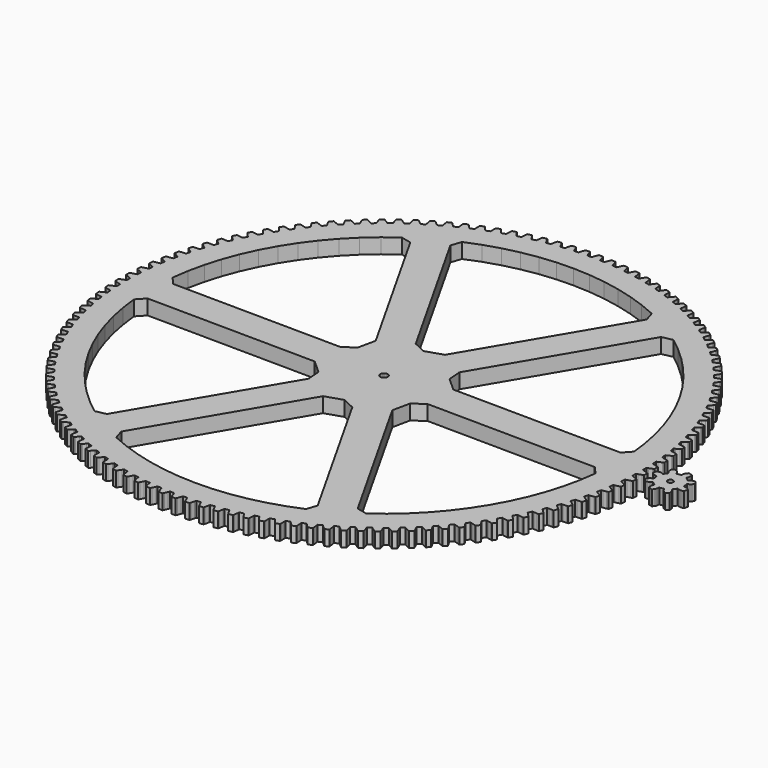
from build123d import *

# Parameters (mm, degrees)
F1_DEPTH = 4


with BuildPart() as f1:
    # F0 (on Top) → F1 (new body)
    with BuildSketch(Plane.XY):
        Polygon((63.58866, 0.325535), (63.16804, 0.463685), (63.15065, 1.617325), (63.5669, 1.768095), (64.39777, 2.096685), (64.81229, 2.273875), (64.76705, 3.398435), (64.33963, 3.541745), (63.48505, 3.802525), (63.05803, 3.919365), (62.98269, 5.070675), (63.39084, 5.242165), (64.20415, 5.612095), (64.60925, 5.809885), (64.50756, 6.930745), (64.07348, 7.052395), (63.20688, 7.269915), (62.77452, 7.365145), (62.64143, 8.511225), (63.04045, 8.703005), (63.83415, 9.113325), (64.22879, 9.331225), (64.07091, 10.445555), (63.63127, 10.545255), (62.75483, 10.718945), (62.31824, 10.792335), (62.12773, 11.930285), (62.51662, 12.141865), (63.28869, 12.591555), (63.67189, 12.828995), (63.45822, 13.933995), (63.01413, 14.011475), (62.13007, 14.140915), (61.69034, 14.192275), (61.44289, 15.319205), (61.82066, 15.550065), (62.56916, 16.037975), (62.93995, 16.294375), (62.67103, 17.387245), (62.2236, 17.442305), (61.33416, 17.527165), (60.8924, 17.556365), (60.58865, 18.669445), (60.95434, 18.918995), (61.67738, 19.443895), (62.03482, 19.718595), (61.71133, 20.796575), (61.2617, 20.829085), (60.36911, 20.869155), (59.92645, 20.876125), (59.56715, 21.972535), (59.91984, 22.240135), (60.6156, 22.800705), (60.95878, 23.093025), (60.58154, 24.153385), (60.13084, 24.163265), (59.23737, 24.158425), (58.79491, 24.143145), (58.38099, 25.220125), (58.71978, 25.505105), (59.3865, 26.099925), (59.71456, 26.409115), (59.28451, 27.449185), (58.83389, 27.436405), (57.94179, 27.386685), (57.50066, 27.349195), (57.03314, 28.404005), (57.35719, 28.705665), (57.99318, 29.333225), (58.30529, 29.658505), (57.82353, 30.675655), (57.37412, 30.640255), (56.48565, 30.545775), (56.04696, 30.486165), (55.52703, 31.516155), (55.83552, 31.833705), (56.43917, 32.492435), (56.73454, 32.832985), (56.20228, 33.824645), (55.75522, 33.766705), (54.87261, 33.627705), (54.43747, 33.546125), (53.86645, 34.548695), (54.15859, 34.881345), (54.72839, 35.569565), (55.00627, 35.924535), (54.42487, 36.888195), (53.98128, 36.807865), (53.10677, 36.624695), (52.67628, 36.521365), (52.05561, 37.493975), (52.33066, 37.840885), (52.86516, 38.556865), (53.12486, 38.925345), (52.49577, 39.858575), (52.05677, 39.756065), (51.19257, 39.529185), (50.76782, 39.404345), (50.09906, 40.344545), (50.35634, 40.704835), (50.85418, 41.446765), (51.09505, 41.827835), (50.41986, 42.728275), (49.98657, 42.603835), (49.13486, 42.333825), (48.71692, 42.187805), (48.00176, 43.093215), (48.24061, 43.465975), (48.70055, 44.231985), (48.92196, 44.624665), (48.20239, 45.490045), (47.7759, 45.343995), (46.93883, 45.031525), (46.52875, 44.864695), (45.76901, 45.733025), (45.98883, 46.117325), (46.4097, 46.905475), (46.6111, 47.308785), (45.84895, 48.136915), (45.43034, 47.969625), (44.61003, 47.615495), (44.20885, 47.428265), (43.40644, 48.257325), (43.60667, 48.652185), (43.98741, 49.460485), (44.16829, 49.873405), (43.3655, 50.662195), (42.95582, 50.474085), (42.15434, 50.079185), (41.76307, 49.872035), (40.92002, 50.659735), (41.10016, 51.064145), (41.43981, 51.890555), (41.59971, 52.312045), (40.7583, 53.059515), (40.35859, 52.851045), (39.57797, 52.416375), (39.1976, 52.189835), (38.31604, 52.934175), (38.47563, 53.347135), (38.77333, 54.189565), (38.91185, 54.618555), (38.03395, 55.322795), (37.64522, 55.094515), (36.88742, 54.621175), (36.51892, 54.375795), (35.60106, 55.074915), (35.73971, 55.495365), (35.9947, 56.351695), (36.1115, 56.787105), (35.19931, 57.446345), (34.82255, 57.198815), (34.08949, 56.687995), (33.73378, 56.424415), (32.78196, 57.076535), (32.89931, 57.503415), (33.11095, 58.371475), (33.20572, 58.812205), (32.26157, 59.424785), (31.89771, 59.158635), (31.19124, 58.611625), (30.84923, 58.330515), (29.86585, 58.933975), (29.9616, 59.366225), (30.12935, 60.243815), (30.20186, 60.688745), (29.22813, 61.253115), (28.8781, 60.969025), (28.20001, 60.387215), (27.87255, 60.089265), (26.86009, 60.642565), (26.934, 61.079065), (27.05745, 61.963985), (27.10752, 62.411995), (26.10665, 62.926725), (25.77134, 62.625405), (25.12334, 62.010265), (24.81127, 61.696235), (23.77229, 62.197965), (23.82417, 62.637635), (23.903, 63.527635), (23.93049, 63.977595), (22.90503, 64.441385), (22.58529, 64.123605), (21.96901, 63.476675), (21.67311, 63.147365), (20.61023, 63.596255), (20.63996, 64.037985), (20.67397, 64.930815), (20.67882, 65.381595), (19.63135, 65.793275), (19.32798, 65.459825), (18.74498, 64.782745), (18.466, 64.438995), (17.38191, 64.833915), (17.38941, 65.276565), (17.37852, 66.169985), (17.36071, 66.620435), (16.29388, 66.978965), (16.00764, 66.630695), (15.45941, 65.925185), (15.19804, 65.567845), (14.09548, 65.907795), (14.08073, 66.350265), (14.02497, 67.242015), (13.98455, 67.690995), (12.90105, 67.995475), (12.63267, 67.633265), (12.12058, 66.901095), (11.8775, 66.531075), (10.75925, 66.815195), (10.72228, 67.256375), (10.62179, 68.144185), (10.55886, 68.590575), (9.46143, 68.840225), (9.2116, 68.464985), (8.73693, 67.708015), (8.51275, 67.326255), (7.38164, 67.553825), (7.32255, 67.992585), (7.17758, 68.874235), (7.0923, 69.316895), (5.98372, 69.511095), (5.75305, 69.123775), (5.31702, 68.343905), (5.1123, 67.951365), (3.97118, 68.121825), (3.89013, 68.557055), (3.70104, 69.430305), (3.59363, 69.868125), (2.47668, 70.006375), (2.26577, 69.607955), (1.86947, 68.807165), (1.68474, 68.404835), (0.5365, 68.517745), (0.43367, 68.948355), (0.20095, 69.810995), (0.07168, 70.242865), (-1.0508, 70.324825), (-1.24144, 69.916315), (-1.597, 69.096625), (-1.76128, 68.685515), (-2.91374, 68.740585), (-3.03807, 69.165485), (-3.31385, 70.015345), (-3.46466, 70.440175), (-4.58984, 70.465635), (-4.7597, 70.048055), (-5.07363, 69.211545), (-5.21705, 68.792695), (-6.37082, 68.789795), (-6.51635, 69.207915), (-6.83447, 70.042845), (-7.00644, 70.459565), (-8.13147, 70.428455), (-8.28014, 70.002865), (-8.55164, 69.151635), (-8.67384, 68.726105), (-9.82601, 68.665245), (-9.99236, 69.075525), (-10.35203, 69.893415), (-10.54472, 70.300965), (-11.66677, 70.213365), (-11.79387, 69.780855), (-12.02226, 68.917045), (-12.12291, 68.485925), (-13.27057, 68.367245), (-13.45733, 68.768645), (-13.85764, 69.567435), (-14.07056, 69.964785), (-15.18679, 69.820925), (-15.292, 69.382565), (-15.4767, 68.508385), (-15.55557, 68.072745), (-16.69582, 67.896555), (-16.9025, 68.288065), (-17.34244, 69.065735), (-17.57506, 69.451885), (-18.68265, 69.252115), (-18.7657, 68.809035), (-18.90624, 67.926665), (-18.96313, 67.487615), (-20.09308, 67.254355), (-20.31917, 67.634995), (-20.79764, 68.389565), (-21.04936, 68.763545), (-22.14552, 68.508385), (-22.2062, 68.061685), (-22.30223, 67.173375), (-22.33698, 66.732015), (-23.45379, 66.442275), (-23.69872, 66.811075), (-24.21449, 67.540655), (-24.48469, 67.901515), (-25.56664, 67.591595), (-25.6048, 67.142415), (-25.65608, 66.250395), (-25.66861, 65.807855), (-26.76945, 65.462365), (-27.0326, 65.818395), (-27.58438, 66.521135), (-27.87236, 66.867965), (-28.93738, 66.504075), (-28.95292, 66.053545), (-28.95932, 65.160085), (-28.9496, 64.717465), (-30.03169, 64.317105), (-30.3124, 64.659455), (-30.89879, 65.333595), (-31.20383, 65.665515), (-32.24922, 65.248575), (-32.24211, 64.797825), (-32.2036, 63.905165), (-32.17165, 63.463605), (-33.23226, 63.009375), (-33.52982, 63.337195), (-34.14934, 63.981015), (-34.47067, 64.297185), (-35.49379, 63.828245), (-35.46404, 63.378425), (-35.38073, 62.488835), (-35.32664, 62.049435), (-36.36309, 61.542495), (-36.67674, 61.854945), (-37.32782, 62.466825), (-37.66464, 62.766455), (-38.66291, 62.246695), (-38.61059, 61.798945), (-38.48269, 60.914655), (-38.40659, 60.478525), (-39.41626, 59.920155), (-39.74521, 60.216445), (-40.42622, 60.794845), (-40.77766, 61.077175), (-41.74855, 60.507915), (-41.67381, 60.063355), (-41.50164, 59.186615), (-41.40372, 58.754855), (-42.38406, 58.146455), (-42.72748, 58.425855), (-43.43669, 58.969295), (-43.80188, 59.233615), (-44.74294, 58.616295), (-44.64595, 58.176045), (-44.42995, 57.309065), (-44.31046, 56.882775), (-45.25899, 56.225885), (-45.61602, 56.487675), (-46.35164, 56.994805), (-46.72964, 57.240435), (-47.6385, 56.576615), (-47.51951, 56.141795), (-47.26022, 55.286765), (-47.11947, 54.867015), (-48.03379, 54.163295), (-48.40352, 54.406815), (-49.16369, 54.876335), (-49.55356, 55.102665), (-50.42792, 54.394025), (-50.28724, 53.965735), (-49.98531, 53.124805), (-49.82365, 52.712655), (-50.70146, 51.963885), (-51.08296, 52.188525), (-51.86576, 52.619265), (-52.26651, 52.825715), (-53.10415, 52.074035), (-52.94213, 51.653355), (-52.59834, 50.828655), (-52.41617, 50.425155), (-53.25525, 49.633225), (-53.64755, 49.838405), (-54.45101, 50.229275), (-54.86162, 50.415325), (-55.66044, 49.622505), (-55.47749, 49.210495), (-55.09269, 48.404125), (-54.89048, 48.010285), (-55.68871, 47.177195), (-56.09083, 47.362405), (-56.9129, 47.712405), (-57.33235, 47.877595), (-58.09033, 47.045645), (-57.8869, 46.643345), (-57.46208, 45.857325), (-57.24033, 45.474135), (-57.99569, 44.601995), (-58.40661, 44.766765), (-59.24523, 45.075025), (-59.67245, 45.218925), (-60.38767, 44.349945), (-60.16429, 43.958375), (-59.70051, 43.194685), (-59.45978, 42.823135), (-60.17038, 41.914135), (-60.58905, 42.058055), (-61.44211, 42.323785), (-61.87601, 42.446045), (-62.54667, 41.542215), (-62.30389, 41.162375), (-61.80233, 40.422945), (-61.54324, 40.063955), (-62.20726, 39.120405), (-62.63264, 39.243105), (-63.49797, 39.465645), (-63.93747, 39.565945), (-64.56186, 38.629565), (-64.30031, 38.262395), (-63.76223, 37.549105), (-63.48543, 37.203585), (-64.10121, 36.227865), (-64.53221, 36.329035), (-65.40763, 36.507815), (-65.85162, 36.585905), (-66.42817, 35.619335), (-66.1485, 35.265775), (-65.57526, 34.580425), (-65.28145, 34.249245), (-65.84743, 33.243815), (-66.28297, 33.323205), (-67.16626, 33.457765), (-67.61361, 33.513455), (-68.14088, 32.519145), (-67.8438, 32.180075), (-67.23684, 31.524395), (-66.92676, 31.208395), (-67.44151, 30.175805), (-67.88049, 30.233205), (-68.76943, 30.323215), (-69.21901, 30.356355), (-69.69565, 29.336805), (-69.38191, 29.013095), (-68.74278, 28.388735), (-68.41721, 28.088715), (-68.87942, 27.031565), (-69.32074, 27.066845), (-70.21308, 27.112075), (-70.66376, 27.122585), (-71.08857, 26.080375), (-70.75896, 25.772835), (-70.08926, 25.181375), (-69.74904, 24.898095), (-70.15755, 23.819055), (-70.60007, 23.832115), (-71.49356, 23.832455), (-71.9442, 23.820305), (-72.31611, 22.758065), (-71.97146, 22.467475), (-71.27289, 21.910415), (-70.91886, 21.644585), (-71.27264, 20.546385), (-71.71527, 20.537185), (-72.60764, 20.492635), (-73.0571, 20.457865), (-73.37517, 19.378275), (-73.01636, 19.105375), (-72.29068, 18.584115), (-71.92374, 18.336405), (-72.2219, 17.221815), (-72.6635, 17.190395), (-73.55251, 17.101065), (-73.99965, 17.043755), (-74.26308, 15.949545), (-73.89101, 15.695015), (-73.14006, 15.210875), (-72.76114, 14.981915), (-73.00291, 13.853755), (-73.44238, 13.800185), (-74.32578, 13.666295), (-74.76948, 13.586595), (-74.97759, 12.480535), (-74.5932, 12.245015), (-73.81888, 11.799215), (-73.42893, 11.589585), (-73.61372, 10.450705), (-74.04994, 10.375125), (-74.92549, 10.197015), (-75.36463, 10.095115), (-75.5169, 8.980005), (-75.12117, 8.764095), (-74.32542, 8.357765), (-73.92543, 8.167995), (-74.05276, 7.021265), (-74.48464, 6.923855), (-75.35014, 6.701985), (-75.7836, 6.578155), (-75.87965, 5.456795), (-75.47357, 5.261045), (-74.65841, 4.895215), (-74.2494, 4.725775), (-74.31895, 3.574095), (-74.74538, 3.455115), (-75.59864, 3.190035), (-76.02533, 3.044585), (-76.06492, 1.919815), (-75.64951, 1.744715), (-74.81701, 1.420295), (-74.4, 1.271625), (-74.41159, 0.117905), (-74.83151, -0.022355), (-75.67037, -0.329965), (-76.08922, -0.496675), (-76.07225, -1.622015), (-75.64856, -1.776025), (-74.80081, -2.058195), (-74.37685, -2.185725), (-74.33047, -3.338575), (-74.74281, -3.499755), (-75.56516, -3.849125), (-75.97509, -4.036665), (-75.9016, -5.159735), (-75.47072, -5.292255), (-74.60986, -5.531485), (-74.18003, -5.637555), (-74.07578, -6.786615), (-74.4795, -6.968305), (-75.28325, -7.358555), (-75.68325, -7.566455), (-75.55343, -8.684415), (-75.11643, -8.795115), (-74.24463, -8.990785), (-73.81002, -9.075125), (-73.64817, -10.217495), (-74.04225, -10.419245), (-74.82538, -10.849385), (-75.21443, -11.077125), (-75.02859, -12.187145), (-74.58658, -12.275755), (-73.70606, -12.427375), (-73.26776, -12.489765), (-73.04871, -13.622565), (-73.43216, -13.843855), (-74.19269, -14.312795), (-74.5698, -14.559805), (-74.32843, -15.659085), (-73.88253, -15.725375), (-72.9955, -15.832555), (-72.55461, -15.872845), (-72.27893, -16.993205), (-72.65077, -17.233485), (-73.38678, -17.740055), (-73.75101, -18.005685), (-73.45471, -19.091455), (-73.00604, -19.135255), (-72.11474, -19.197735), (-71.67239, -19.215825), (-71.34076, -20.320925), (-71.70006, -20.579585), (-72.40969, -21.122485), (-72.76011, -21.406085), (-72.40963, -22.475595), (-71.95933, -22.496795), (-71.06602, -22.514415), (-70.62331, -22.510255), (-70.23658, -23.597295), (-70.58243, -23.873675), (-71.26388, -24.451555), (-71.59961, -24.752405), (-71.19584, -25.802945), (-70.74504, -25.801495), (-69.85197, -25.774215), (-69.41004, -25.747815), (-68.96918, -26.814045), (-69.3007, -27.107465), (-69.95226, -27.718845), (-70.27245, -28.036185), (-69.8164, -29.065115), (-69.36624, -29.041015), (-68.47567, -28.968895), (-68.03563, -28.920325), (-67.54175, -29.963065), (-67.85811, -30.272755), (-68.47813, -30.916105), (-68.78197, -31.249135), (-68.2748, -32.253845), (-67.82642, -32.207165), (-66.9406, -32.090385), (-66.50355, -32.019775), (-65.9579, -33.036375), (-66.25831, -33.361575), (-66.84522, -34.035265), (-67.13194, -34.383135), (-66.57493, -35.361105), (-66.12946, -35.291945), (-65.25063, -35.130815), (-64.81768, -35.038325), (-64.22164, -36.026225), (-64.50533, -36.366115), (-65.05765, -37.068435), (-65.32653, -37.430275), (-64.72109, -38.379025), (-64.27966, -38.287575), (-63.41003, -38.082485), (-62.98227, -37.968365), (-62.33735, -38.925065), (-62.6036, -39.278775), (-63.11993, -40.007965), (-63.37029, -40.382855), (-62.71795, -41.299985), (-62.28167, -41.186475), (-61.42345, -40.937945), (-61.00196, -40.802475), (-60.30979, -41.725575), (-60.55793, -42.092215), (-61.03697, -42.846425), (-61.26818, -43.233415), (-60.57058, -44.116615), (-60.14056, -43.981325), (-59.2959, -43.689985), (-58.88176, -43.533515), (-58.14408, -44.420665), (-58.37349, -44.799315), (-58.81403, -45.576635), (-59.0255, -45.974765), (-58.2844, -46.821785), (-57.86172, -46.665065), (-57.03277, -46.331655), (-56.62701, -46.154575), (-55.84569, -47.003535), (-56.05578, -47.393235), (-56.45671, -48.191715), (-56.64792, -48.599955), (-55.8652, -49.408675), (-55.45092, -49.230915), (-54.63977, -48.856285), (-54.24342, -48.659035), (-53.42043, -49.467665), (-53.61068, -49.867425), (-53.97098, -50.685045), (-54.14143, -51.102385), (-53.31907, -51.870755), (-52.91425, -51.672395), (-52.12295, -51.257485), (-51.73701, -51.040565), (-50.87443, -51.806835), (-51.04435, -52.215645), (-51.36312, -53.050335), (-51.51238, -53.475705), (-50.65245, -54.201785), (-50.25811, -53.983345), (-49.48865, -53.529195), (-49.1141, -53.293165), (-48.21411, -54.015115), (-48.36327, -54.431955), (-48.6397, -55.281605), (-48.76741, -55.713935), (-47.87208, -56.395895), (-47.48921, -56.157915), (-46.74354, -55.665675), (-46.38132, -55.411125), (-45.44619, -56.086955), (-45.57423, -56.510755), (-45.80762, -57.373215), (-45.91344, -57.811425), (-44.98498, -58.447535), (-44.61455, -58.190615), (-43.89456, -57.661535), (-43.54558, -57.389105), (-42.57768, -58.017095), (-42.68426, -58.446795), (-42.87402, -59.319895), (-42.95769, -59.762865), (-41.99844, -60.351525), (-41.64139, -60.076315), (-40.94889, -59.511735), (-40.61405, -59.222105), (-39.61581, -59.800675), (-39.70067, -60.235185), (-39.84632, -61.116715), (-39.90762, -61.563335), (-38.92001, -62.103045), (-38.57724, -61.810255), (-37.91398, -61.211585), (-37.59411, -60.905505), (-36.56807, -61.433185), (-36.63098, -61.871405), (-36.73216, -62.759145), (-36.77095, -63.208275), (-35.75746, -63.697695), (-35.42983, -63.388045), (-34.79749, -62.756805), (-34.49341, -62.435035), (-33.44215, -62.910495), (-33.48297, -63.351335), (-33.53941, -64.243025), (-33.55558, -64.693545), (-32.51879, -65.131415), (-32.20713, -64.805695), (-31.60731, -64.143485), (-31.31977, -63.806845), (-30.24595, -64.228885), (-30.26457, -64.671215), (-30.27614, -65.564625), (-30.26966, -66.015375), (-29.21217, -66.400605), (-28.91727, -66.059635), (-28.35148, -65.368125), (-28.08122, -65.017465), (-26.98755, -65.385015), (-26.98392, -65.827725), (-26.95059, -66.720585), (-26.92146, -67.170445), (-25.84596, -67.502055), (-25.56856, -67.146705), (-25.03823, -66.427635), (-24.78593, -66.063835), (-23.67517, -66.375975), (-23.6493, -66.817935), (-23.57115, -67.707995), (-23.51946, -68.155825), (-22.42865, -68.432985), (-22.16947, -68.064135), (-21.67593, -67.319335), (-21.44223, -66.943315), (-20.31719, -67.199255), (-20.26915, -67.639355), (-20.14638, -68.524365), (-20.07225, -68.969035), (-18.96889, -69.191025), (-18.72857, -68.809625), (-18.27307, -68.040965), (-18.05856, -67.653685), (-16.92209, -67.852775), (-16.85199, -68.289905), (-16.68491, -69.167625), (-16.58853, -69.608005), (-15.47542, -69.774285), (-15.25455, -69.381295), (-14.83826, -68.590715), (-14.64348, -68.193145), (-13.49843, -68.334875), (-13.40646, -68.767935), (-13.19549, -69.636155), (-13.07711, -70.071145), (-11.95705, -70.181285), (-11.75621, -69.777685), (-11.38016, -68.967195), (-11.2056, -68.560335), (-10.05488, -68.644355), (-9.94127, -69.072255), (-9.68694, -69.928775), (-9.54685, -70.357255), (-8.42267, -70.410985), (-8.24236, -69.997805), (-7.90751, -69.169445), (-7.75362, -68.754335), (-6.60013, -68.780425), (-6.46516, -69.202075), (-6.16812, -70.044735), (-6.00668, -70.465635), (-4.88122, -70.462815), (-4.7219, -70.041095), (-4.42909, -69.196955), (-4.29624, -68.774635), (-3.1429, -68.742745), (-2.98692, -69.157075), (-2.64791, -69.983745), (-2.46553, -70.396015), (-1.34163, -70.336635), (-1.2037, -69.907455), (-0.95368, -69.049665), (-0.84222, -68.621205), (0.30806, -68.531405), (0.48466, -68.937375), (0.86478, -69.745965), (1.06765, -70.148545), (2.18714, -70.032775), (2.30333, -69.597205), (2.50994, -68.727935), (2.59973, -68.294415), (3.74405, -68.146935), (3.94083, -68.543515), (4.36109, -69.331995), (4.58393, -69.723875), (5.69619, -69.552005), (5.79035, -69.111145), (5.95302, -68.232595), (6.02092, -67.795105), (7.15638, -67.590315), (7.37284, -67.976515), (7.83218, -68.742875), (8.07443, -69.123065), (9.17665, -68.895525), (9.24854, -68.450485), (9.36687, -67.564875), (9.4127, -67.124535), (10.53643, -66.862945), (10.77202, -67.237785), (11.26929, -67.980095), (11.53033, -68.347635), (12.61974, -68.065005), (12.66917, -67.616915), (12.74285, -66.726475), (12.7665, -66.284385), (13.87567, -65.966675), (14.12979, -66.329195), (14.66374, -67.045585), (14.94291, -67.399545), (16.01674, -67.062535), (16.0436, -66.612525), (16.07244, -65.719515), (16.07385, -65.276795), (17.16566, -64.903745), (17.43768, -65.253045), (18.00694, -65.941705), (18.30355, -66.281185), (19.35908, -65.890645), (19.3633, -65.439865), (19.34724, -64.546525), (19.3264, -64.104295), (20.39809, -63.676865), (20.68731, -64.012055), (21.29046, -64.671245), (21.60375, -64.995395), (22.63833, -64.552315), (22.61989, -64.101885), (22.55896, -63.210485), (22.51593, -62.769855), (23.56479, -62.289125), (23.87049, -62.609355), (24.50599, -63.237405), (24.83517, -63.545405), (25.84618, -63.050905), (25.80514, -62.601975), (25.6995, -61.714755), (25.63438, -61.276845), (26.65776, -60.744025), (26.97916, -61.048485), (27.64542, -61.643815), (27.98966, -61.934885), (28.97455, -61.390215), (28.911, -60.943915), (28.76092, -60.063125), (28.67388, -59.629045), (29.6692, -59.045465), (30.00549, -59.333405), (30.70082, -59.894505), (31.05925, -60.167905), (32.01553, -59.574435), (31.92963, -59.131895), (31.73549, -58.259755), (31.62675, -57.830595), (32.59149, -57.197755), (32.94182, -57.468425), (33.66447, -57.993885), (34.03618, -58.248935), (34.96143, -57.608165), (34.85341, -57.170495), (34.61569, -56.309215), (34.48553, -55.886065), (35.41725, -55.205545), (35.78074, -55.458275), (36.52887, -55.946755), (36.91293, -56.182805), (37.80482, -55.496355), (37.67495, -55.064665), (37.39425, -54.216425), (37.24299, -53.800345), (38.13934, -53.073865), (38.51507, -53.308015), (39.2868, -53.758295), (39.68224, -53.974755), (40.53851, -53.244355), (40.38711, -52.819735), (40.06415, -51.986665), (39.89217, -51.578715), (40.75089, -50.808115), (41.13792, -51.023095), (41.9313, -51.434025), (42.33711, -51.630345), (43.1556, -50.857845), (42.98305, -50.441375), (42.61864, -49.625575), (42.42639, -49.226785), (43.24531, -48.414015), (43.64264, -48.609275), (44.45566, -48.979825), (44.87083, -49.155505), (45.64947, -48.342855), (45.45622, -47.935575), (45.05128, -47.139125), (44.83923, -46.750485), (45.61628, -45.897605), (46.02292, -46.072655), (46.85354, -46.401885), (47.277, -46.556485), (48.01383, -45.705745), (47.80036, -45.308685), (47.35592, -44.533585), (47.12461, -44.156095), (47.85782, -43.265245), (48.27275, -43.419635), (49.11885, -43.706725), (49.54955, -43.839845), (50.24271, -42.953165), (50.00955, -42.567335), (49.52673, -41.815545), (49.27674, -41.450145), (49.96427, -40.523585), (50.38643, -40.656935), (51.24589, -40.901145), (51.68273, -41.012465), (52.33046, -40.092065), (52.07822, -39.718445), (51.55823, -38.991855), (51.2902, -38.639495), (51.9303, -37.679555), (52.35863, -37.791525), (53.22928, -37.992245), (53.67116, -38.081465), (54.27183, -37.129695), (54.00113, -36.769215), (53.44529, -36.069675), (53.1599, -35.731215), (53.75096, -34.740325), (54.18437, -34.830635), (55.06401, -34.987355), (55.50982, -35.054265), (56.0619, -34.073515), (55.77343, -33.727095), (55.18315, -33.056365), (54.88111, -32.732675), (55.42164, -31.713345), (55.85904, -31.781755), (56.74544, -31.894085), (57.19405, -31.938515), (57.69616, -30.931255), (57.39065, -30.599765), (56.76741, -29.959545), (56.44949, -29.651435), (56.93812, -28.606235), (57.3784, -28.652585), (58.26932, -28.720235), (58.7196, -28.742065), (59.17047, -27.710855), (58.84869, -27.395135), (58.19407, -26.787035), (57.86107, -26.495285), (58.29657, -25.426855), (58.73863, -25.451025), (59.63182, -25.473825), (60.08262, -25.473005), (60.48111, -24.420445), (60.14387, -24.121285), (59.45952, -23.546845), (59.11229, -23.272205), (59.49355, -22.183235), (59.93627, -22.185175), (60.82948, -22.163065), (61.27967, -22.139595), (61.62477, -21.068335), (61.27293, -20.786505), (60.56058, -20.247175), (60.19999, -19.990325), (60.52606, -18.883575), (60.96831, -18.863265), (61.85928, -18.796305), (62.30773, -18.750245), (62.59856, -17.663005), (62.23301, -17.399205), (61.49446, -16.896345), (61.12141, -16.657935), (61.39146, -15.536205), (61.83214, -15.493695), (62.71862, -15.382055), (63.16418, -15.313525), (63.40003, -14.213045), (63.02168, -13.967945), (62.2588, -13.502825), (61.87425, -13.283465), (62.08759, -12.149585), (62.52558, -12.084985), (63.40533, -11.928945), (63.84689, -11.838105), (64.02714, -10.727175), (63.63695, -10.501385), (62.85167, -10.075195), (62.45658, -9.875425), (62.61268, -8.732255), (63.04687, -8.645735), (63.91767, -8.445685), (64.35411, -8.332785), (64.47831, -7.214195), (64.07727, -7.008295), (63.27157, -6.622095), (62.86694, -6.442435), (62.96541, -5.292865), (63.3947, -5.184635), (64.25435, -4.941085), (64.68456, -4.806405), (64.75241, -3.682985), (64.34153, -3.497495), (63.51744, -3.152265), (63.1043, -2.993165), (63.14488, -1.840095), (63.56819, -1.710435), (64.41452, -1.424005), (64.83742, -1.267865), (64.84873, -0.142455), (64.42906, 0.022145), align=None)
        Polygon((-32.59874, -53.969265), (-9.71597, -15.239595), (-5.14731, -13.746725), (-1.83342, -15.318835), (20.26608, -54.500735), (19.37504, -57.224295), (15.2929, -58.838935), (11.10742, -60.162815), (6.83927, -61.189375), (2.50954, -61.913545), (-1.86036, -62.331765), (-6.24884, -62.441945), (-10.63422, -62.243555), (-14.99483, -61.737565), (-19.30912, -60.926495), (-23.55577, -59.814325), (-27.71379, -58.406575), (-31.76264, -56.710185), align=None, mode=Mode.SUBTRACT)
        Polygon((-65.85146, -3.619645), (-20.86919, -4.071875), (-17.292, -7.282015), (-16.99655, -10.937985), (-39.87932, -49.667655), (-42.68351, -50.257775), (-46.1229, -47.529865), (-49.36215, -44.567065), (-52.38525, -41.384015), (-55.17727, -37.996455), (-57.7244, -34.421115), (-60.01407, -30.675675), (-62.03494, -26.778625), (-63.77705, -22.749235), (-65.23178, -18.607405), (-66.39194, -14.373625), (-67.25181, -10.068795), (-67.80712, -5.714185), align=None, mode=Mode.SUBTRACT)
        Polygon((27.63166, -50.346375), (5.53217, -11.164475), (6.52364, -6.461465), (9.54208, -4.377605), (54.52434, -4.829835), (56.43749, -6.963275), (55.79475, -11.305835), (54.84851, -15.592505), (53.60347, -19.802115), (52.06576, -23.913855), (50.24299, -27.907405), (48.14417, -31.763035), (45.77967, -35.461685), (43.16117, -38.985095), (40.30161, -42.315835), (37.21512, -45.437465), (33.91696, -48.334535), (30.42342, -50.992755), align=None, mode=Mode.SUBTRACT)
        Polygon((-38.87377, 50.352865), (-16.77427, 11.170965), (-17.76575, 6.467955), (-20.78418, 4.384095), (-65.76645, 4.836325), (-67.6796, 6.969755), (-67.03685, 11.312315), (-66.09062, 15.598995), (-64.84557, 19.808595), (-63.30786, 23.920335), (-61.4851, 27.913885), (-59.38628, 31.769515), (-57.02177, 35.468175), (-54.40327, 38.991575), (-51.54372, 42.322325), (-48.45723, 45.443945), (-45.15907, 48.341025), (-41.66553, 50.999235), align=None, mode=Mode.SUBTRACT)
        Polygon((-4.65513, 0.262065), (-4.62105, 0.003245), (-4.65513, -0.255575), (-4.75503, -0.496755), (-4.91395, -0.703865), (-5.12105, -0.862785), (-5.36223, -0.962685), (-5.62105, -0.996755), (-5.87987, -0.962685), (-6.12105, -0.862785), (-6.32816, -0.703865), (-6.48708, -0.496755), (-6.58698, -0.255575), (-6.62105, 0.003245), (-6.58698, 0.262065), (-6.48708, 0.503245), (-6.32816, 0.710345), (-6.12105, 0.869265), (-5.87987, 0.969165), (-5.62105, 1.003245), (-5.36223, 0.969165), (-5.12105, 0.869265), (-4.91395, 0.710345), (-4.75503, 0.503245), align=None, mode=Mode.SUBTRACT)
        Polygon((21.35664, 53.975745), (-1.52613, 15.246075), (-6.0948, 13.753215), (-9.40869, 15.325325), (-31.50818, 54.507225), (-30.61715, 57.230775), (-26.53501, 58.845425), (-22.34952, 60.169295), (-18.08137, 61.195855), (-13.75165, 61.920035), (-9.38175, 62.338245), (-4.99326, 62.448435), (-0.60788, 62.250035), (3.75273, 61.744055), (8.06702, 60.932975), (12.31366, 59.820815), (16.47169, 58.413055), (20.52054, 56.716665), align=None, mode=Mode.SUBTRACT)
        Polygon((54.60935, 3.626135), (9.62709, 4.078355), (6.0499, 7.288505), (5.75444, 10.944475), (28.63721, 49.674145), (31.4414, 50.264265), (34.88079, 47.536345), (38.12004, 44.573545), (41.14315, 41.390505), (43.93516, 38.002945), (46.4823, 34.427605), (48.77196, 30.682155), (50.79284, 26.785105), (52.53495, 22.755715), (53.98968, 18.613895), (55.14984, 14.380105), (56.0097, 10.075275), (56.56501, 5.720675), align=None, mode=Mode.SUBTRACT)
        Polygon((67.17221, 0.003285), (67.23007, -0.113575), (67.27271, -0.562535), (67.37089, -1.002695), (67.35198, -1.131715), (67.31169, -1.188145), (67.21998, -1.265735), (67.12042, -1.320035), (66.90697, -1.388045), (66.70991, -1.501845), (66.53167, -1.664145), (66.3678, -1.857035), (66.21865, -2.076195), (66.0852, -2.319035), (66.3293, -2.763905), (66.61486, -3.183365), (66.89182, -3.174705), (67.15481, -3.141315), (67.40107, -3.082865), (67.6266, -2.997735), (67.81746, -2.873825), (67.97496, -2.714515), (68.06854, -2.650465), (68.17931, -2.603965), (68.24788, -2.593695), (68.37143, -2.635415), (68.71904, -2.922715), (69.0997, -3.164535), (69.17756, -3.269145), (69.18898, -3.337535), (69.17899, -3.457245), (69.14698, -3.566045), (69.04414, -3.765065), (68.98527, -3.984875), (68.974, -4.225665), (68.99452, -4.477935), (69.04403, -4.738375), (69.12137, -5.004455), (69.60855, -5.146415), (70.10708, -5.241105), (70.29679, -5.039135), (70.45914, -4.829565), (70.59195, -4.614105), (70.69122, -4.394435), (70.73856, -4.171855), (70.73728, -3.947845), (70.75816, -3.836375), (70.80361, -3.725175), (70.84483, -3.669425), (70.96169, -3.611555), (71.41065, -3.568915), (71.85081, -3.470735), (71.97983, -3.489655), (72.03626, -3.529935), (72.11385, -3.621655), (72.16815, -3.721215), (72.23616, -3.934665), (72.34996, -4.131715), (72.51226, -4.309955), (72.70515, -4.473825), (72.92432, -4.622975), (73.16715, -4.756435), (73.61202, -4.512325), (74.03148, -4.226765), (74.02282, -3.949815), (73.98943, -3.686825), (73.93098, -3.440555), (73.84585, -3.215035), (73.72194, -3.024175), (73.56263, -2.866675), (73.49858, -2.773095), (73.45208, -2.662325), (73.44181, -2.593755), (73.48353, -2.470205), (73.77084, -2.122595), (74.01265, -1.741925), (74.11726, -1.664075), (74.18565, -1.652655), (74.30536, -1.662645), (74.41416, -1.694645), (74.61318, -1.797495), (74.83299, -1.856355), (75.07379, -1.867635), (75.32605, -1.847115), (75.58649, -1.797605), (75.85257, -1.720255), (75.99453, -1.233085), (76.08922, -0.734555), (75.88726, -0.544845), (75.67768, -0.382495), (75.46222, -0.249685), (75.24255, -0.150405), (75.01998, -0.103065), (74.79596, -0.104345), (74.68449, -0.083465), (74.57329, -0.038025), (74.51754, 0.003195), (74.45967, 0.120065), (74.41703, 0.569015), (74.31885, 1.009175), (74.33777, 1.138205), (74.37805, 1.194635), (74.46977, 1.272215), (74.56933, 1.326525), (74.78278, 1.394525), (74.97983, 1.508335), (75.15807, 1.670625), (75.32195, 1.863515), (75.4711, 2.082685), (75.60455, 2.325525), (75.36045, 2.770385), (75.07489, 3.189855), (74.79793, 3.181195), (74.53494, 3.147795), (74.28868, 3.089355), (74.06315, 3.004225), (73.87229, 2.880315), (73.71479, 2.721005), (73.62121, 2.656945), (73.51044, 2.610445), (73.44187, 2.600175), (73.31832, 2.641895), (72.97071, 2.929205), (72.59005, 3.171015), (72.51219, 3.275635), (72.50077, 3.344015), (72.51076, 3.463735), (72.54276, 3.572525), (72.64561, 3.771545), (72.70447, 3.991355), (72.71575, 4.232155), (72.69523, 4.484425), (72.64572, 4.744865), (72.56837, 5.010945), (72.0812, 5.152905), (71.58267, 5.247585), (71.39296, 5.045625), (71.23061, 4.836045), (71.0978, 4.620585), (70.99853, 4.400925), (70.95118, 4.178345), (70.95247, 3.954325), (70.93159, 3.842855), (70.88614, 3.731655), (70.84492, 3.675905), (70.72805, 3.618045), (70.2791, 3.575405), (69.83894, 3.477225), (69.70992, 3.496145), (69.65348, 3.536425), (69.5759, 3.628135), (69.5216, 3.727695), (69.45359, 3.941145), (69.33978, 4.138205), (69.17749, 4.316445), (68.9846, 4.480315), (68.76543, 4.629465), (68.5226, 4.762915), (68.07773, 4.518815), (67.65826, 4.233255), (67.66693, 3.956295), (67.70032, 3.693305), (67.75876, 3.447045), (67.84389, 3.221515), (67.9678, 3.030655), (68.12711, 2.873155), (68.19117, 2.779575), (68.23767, 2.668805), (68.24794, 2.600245), (68.20622, 2.476685), (67.91891, 2.129075), (67.6771, 1.748415), (67.57248, 1.670555), (67.5041, 1.659135), (67.38438, 1.669135), (67.27559, 1.701135), (67.07657, 1.803975), (66.85676, 1.862845), (66.61596, 1.874115), (66.36369, 1.853595), (66.10325, 1.804085), (65.83718, 1.726745), (65.69521, 1.239565), (65.60053, 0.741035), (65.80249, 0.551325), (66.01207, 0.388975), (66.22753, 0.256165), (66.4472, 0.156895), (66.66977, 0.109555), (66.89379, 0.110835), (67.00526, 0.089955), (67.11646, 0.044505), align=None)
        Polygon((71.56932, 0.197355), (71.59487, 0.003245), (71.56932, -0.190875), (71.49439, -0.371755), (71.3752, -0.527085), (71.21987, -0.646275), (71.03899, -0.721205), (70.84487, -0.746755), (70.65076, -0.721205), (70.46987, -0.646275), (70.31454, -0.527085), (70.19535, -0.371755), (70.12043, -0.190875), (70.09487, 0.003245), (70.12043, 0.197355), (70.19535, 0.378245), (70.31454, 0.533575), (70.46987, 0.652765), (70.65076, 0.727685), (70.84487, 0.753245), (71.03899, 0.727685), (71.21987, 0.652765), (71.3752, 0.533575), (71.49439, 0.378245), align=None, mode=Mode.SUBTRACT)
    extrude(amount=F1_DEPTH)


solid = f1.part
